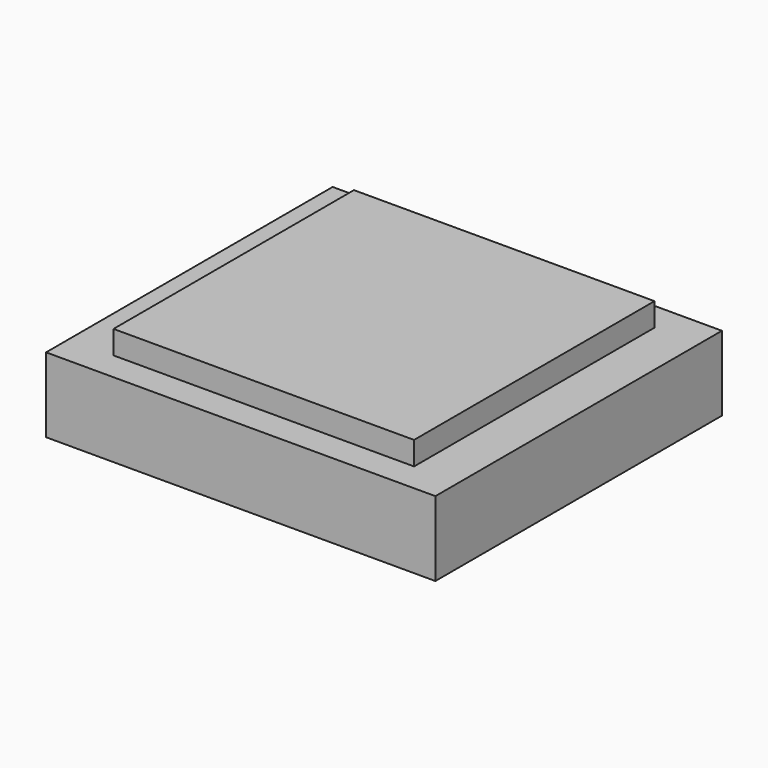
from build123d import *

# Parameters (mm, degrees)
BOX_W             = 19
BOX_H             = 19
BOX_DEPTH         = 1.5
BOX001_W          = 19.3
BOX001_H          = 19.3
BOX001_DEPTH      = 1.5
CYLINDER003_R     = 0.75
CYLINDER003_DEPTH = 5.8
CYLINDER001_R     = 0.75
CYLINDER001_DEPTH = 5.8
CYLINDER002_R     = 0.75
CYLINDER002_DEPTH = 5.8
CYLINDER_R        = 0.75
CYLINDER_DEPTH    = 5.8
BOX002_W          = 25
BOX002_H          = 23
BOX002_DEPTH      = 4.8


with BuildPart() as board:
    # Box → Box (new body)
    with BuildSketch(Plane.XY.offset(5.5)):
        with Locations((9.5, 9.5)):
            Rectangle(BOX_W, BOX_H)
    extrude(amount=BOX_DEPTH)


with BuildPart() as board_hole:
    # Box001 → Box001 (new body)
    with BuildSketch(Plane(origin=(-0.15, -0.15, 6), x_dir=(1, 0, 0), z_dir=(0, 0, 1))):
        with Locations((9.65, 9.65)):
            Rectangle(BOX001_W, BOX001_H)
    extrude(amount=BOX001_DEPTH)


with BuildPart() as cylinder003:
    # Cylinder003 → Cylinder003 (new body)
    with BuildSketch(Plane(origin=(12.681, 1.82, 1.2), x_dir=(1, 0, 0), z_dir=(0, 0, 1))):
        Circle(CYLINDER003_R)
    extrude(amount=CYLINDER003_DEPTH)


with BuildPart() as cylinder001:
    # Cylinder001 → Cylinder001 (new body)
    with BuildSketch(Plane(origin=(10.694, 9.658, 1.2), x_dir=(1, 0, 0), z_dir=(0, 0, 1))):
        Circle(CYLINDER001_R)
    extrude(amount=CYLINDER001_DEPTH)


with BuildPart() as cylinder002:
    # Cylinder002 → Cylinder002 (new body)
    with BuildSketch(Plane(origin=(4.014, 7.228, 1.2), x_dir=(1, 0, 0), z_dir=(0, 0, 1))):
        Circle(CYLINDER002_R)
    extrude(amount=CYLINDER002_DEPTH)


with BuildPart() as fusion:
    # Cylinder → Cylinder (new body)
    with BuildSketch(Plane(origin=(8.137, 12.791, 1.2), x_dir=(1, 0, 0), z_dir=(0, 0, 1))):
        Circle(CYLINDER_R)
    extrude(amount=CYLINDER_DEPTH)

    # Fusion: union Cylinder003, Cylinder001, Cylinder002
    add(cylinder003.part)
    add(cylinder001.part)
    add(cylinder002.part)


with BuildPart() as cut:
    # Box002 → Box002 (new body)
    with BuildSketch(Plane(origin=(-3, -2, 1.2), x_dir=(1, 0, 0), z_dir=(0, 0, 1))):
        with Locations((12.5, 11.5)):
            Rectangle(BOX002_W, BOX002_H)
    extrude(amount=BOX002_DEPTH)

    # Cut: cut Fusion
    add(fusion.part, mode=Mode.SUBTRACT)


solid = Compound([board.part, board_hole.part, cut.part])
